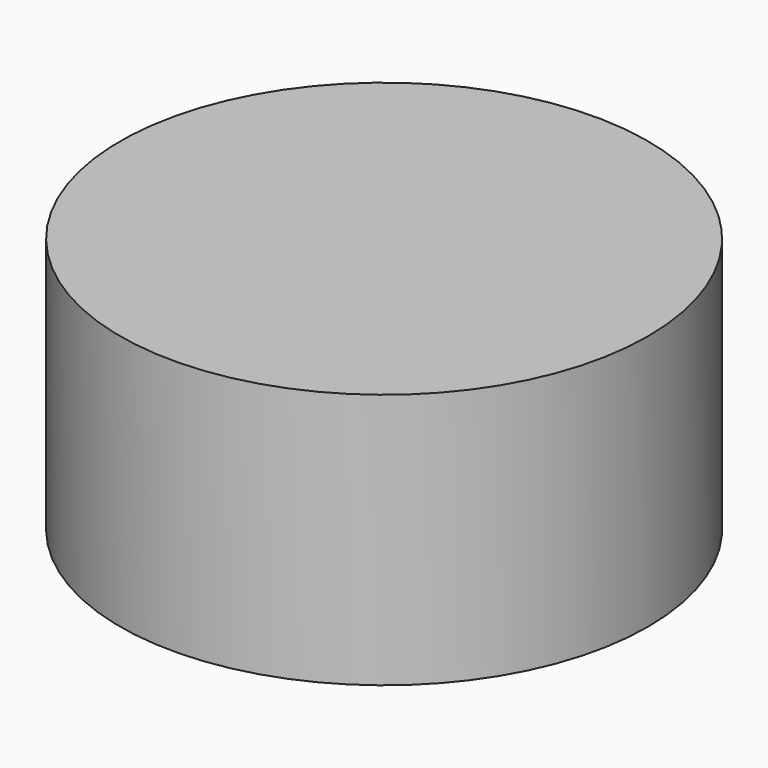
from build123d import *

# Parameters (mm, degrees)
CYLINDER_R     = 15.4813
CYLINDER_DEPTH = 15


with BuildPart() as part:
    # Cylinder → Cylinder (new body)
    with BuildSketch(Plane.XY.offset(-2.5)):
        Circle(CYLINDER_R)
    extrude(amount=CYLINDER_DEPTH)


solid = part.part
